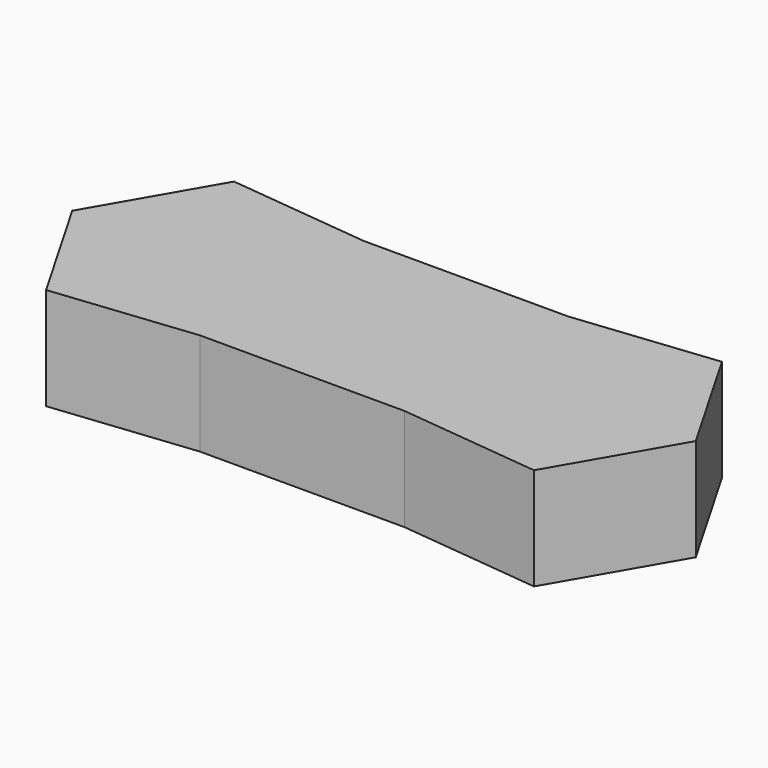
from build123d import *

# Parameters (mm, degrees)
F1_DEPTH = 25


with BuildPart() as f1:
    # F0 (on Top) → F1 (new body)
    with BuildSketch(Plane.XY):
        Polygon((-59.6113632321, -28.6996493522), (-25, -25), (-25, 25), (-59.6113632321, 28.6996493522), (-76.1811135112, 0), align=None)
        Polygon((-9.9021123947, 0), (-24.3358691244, -25), (24.3358691244, -25), (9.9021123947, 0), (24.3358691244, 25), (-24.3358691244, 25), align=None)
        Polygon((-25, 25), (-25, -25), (-24.3358691244, -25), (-9.9021123947, 0), (-24.3358691244, 25), align=None)
        Polygon((9.9021123947, 0), (24.3358691244, -25), (25, -25), (25, 25), (24.3358691244, 25), align=None)
        Polygon((25, 25), (25, -25), (59.6113632321, -28.6996493522), (76.1811135112, 0), (59.6113632321, 28.6996493522), align=None)
    extrude(amount=F1_DEPTH)


solid = f1.part
